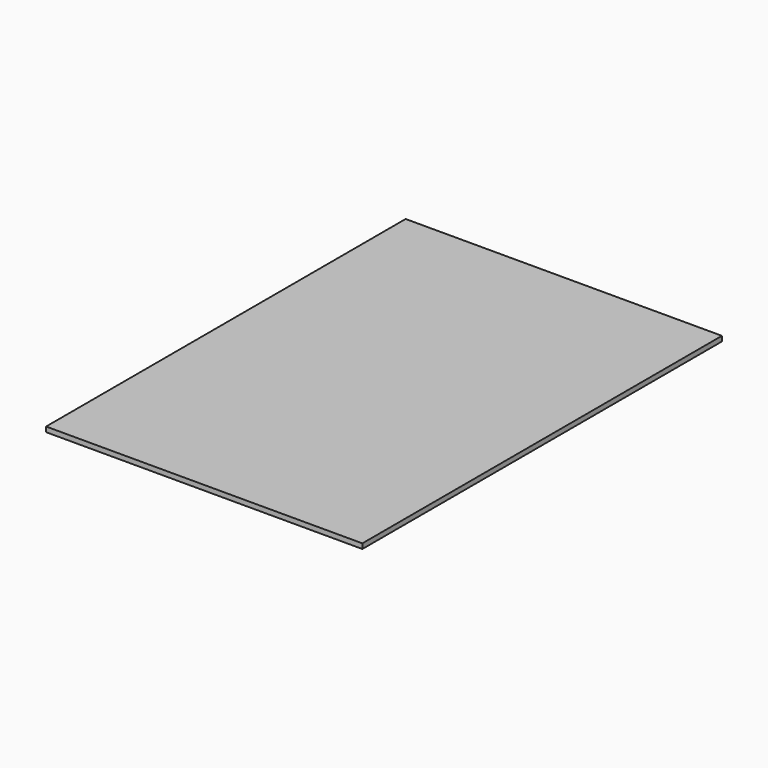
from build123d import *

# Parameters (mm, degrees)
SKETCH_W  = 190
SKETCH_H  = 270
PAD_DEPTH = 3


with BuildPart() as part:
    # Sketch → Pad (new body)
    with BuildSketch(Plane.XY):
        with Locations((-95, 135)):
            Rectangle(SKETCH_W, SKETCH_H)
    extrude(amount=PAD_DEPTH)


solid = part.part
